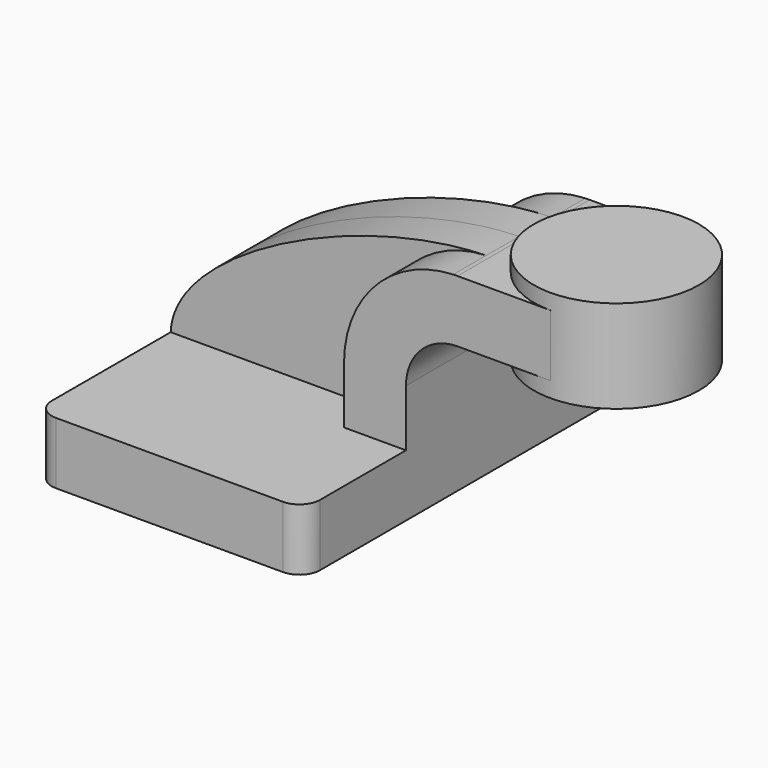
from build123d import *

# Parameters (mm, degrees)
F1_DEPTH = 64.77
F0_W     = 25.4
F0_H     = 19.05
F2_DEPTH = 25.4
F3_DEPTH = 12.7
F5_R     = 6.35


with BuildPart() as f1:
    # F0 (on Front) → F1 (new body, symmetric)
    with BuildSketch(Plane.XZ):
        Polygon((-41.275, -9.525), (41.275, -9.525), (41.275, 9.525), (22.225, 9.525), (-41.275, 9.525), align=None)
    extrude(amount=F1_DEPTH, both=True)

    # F0 (on Front) → F2 (join, symmetric)
    with BuildSketch(Plane.XZ):
        with BuildLine():
            Line((22.225, 9.525), (41.275, 9.525))
            Line((41.275, 9.525), (41.275, 26.9875))
            ThreePointArc((41.275, 26.9875), (45.9246798487, 38.2128201513), (57.15, 42.8625))
            Line((57.15, 42.8625), (60.325, 42.8625))
            Line((60.325, 42.8625), (60.325, 61.9125))
            Line((60.325, 61.9125), (57.15, 61.9125))
            add(Edge.make_bspline(
                [(55.8432856692, 61.8880461656), (56.2807094973, 61.8992793744), (56.7163108605, 61.9074430014), (57.15, 61.9125)],
                knots=[110.3023949866, 110.3023949866, 110.3023949866, 110.3023949866, 111.4985685166, 111.4985685166, 111.4985685166, 111.4985685166], degree=3))
            ThreePointArc((55.8432856692, 61.8880461656), (31.9965447403, 51.2168069133), (22.225, 26.9875))
            Line((22.225, 26.9875), (22.225, 9.525))
        make_face()
        with Locations((73.025, 52.3875)):
            Rectangle(F0_W, F0_H)
    extrude(amount=F2_DEPTH, both=True)

    # F0 (on Front) → F3 (join, symmetric)
    with BuildSketch(Plane.XZ):
        with BuildLine():
            add(Edge.make_bspline(
                [(-41.275, 9.525), (-40.3255333802, 33.7151414766), (15.5072519326, 60.8522016117), (55.8432856692, 61.8880461656)],
                knots=[0, 0, 0, 0, 110.3023949866, 110.3023949866, 110.3023949866, 110.3023949866], degree=3))
            Line((-41.275, 9.525), (22.225, 9.525))
            Line((22.225, 9.525), (22.225, 26.9875))
            ThreePointArc((22.225, 26.9875), (31.9965447403, 51.2168069133), (55.8432856692, 61.8880461656))
        make_face()
    extrude(amount=F3_DEPTH, both=True)

    # F5
    f5_edges = [f1.edges().sort_by_distance(p)[0] for p in [
        (41.275, -64.77, 0),
        (-41.275, -64.77, 0),
        (-41.275, 64.77, 0),
        (41.275, 64.77, 0),
    ]]
    fillet(f5_edges, radius=F5_R)


with BuildPart() as f4:
    # F0 (on Front) → F4 (revolve)
    with BuildSketch(Plane.XZ):
        Polygon((85.725, 61.9125), (85.725, 42.8625), (85.725, 38.1), (111.125, 38.1), (111.125, 66.675), (85.725, 66.675), align=None)
    revolve(axis=Axis((85.725, 0, 52.3875), (0, 0, 1)))


solid = Compound([f1.part, f4.part])
